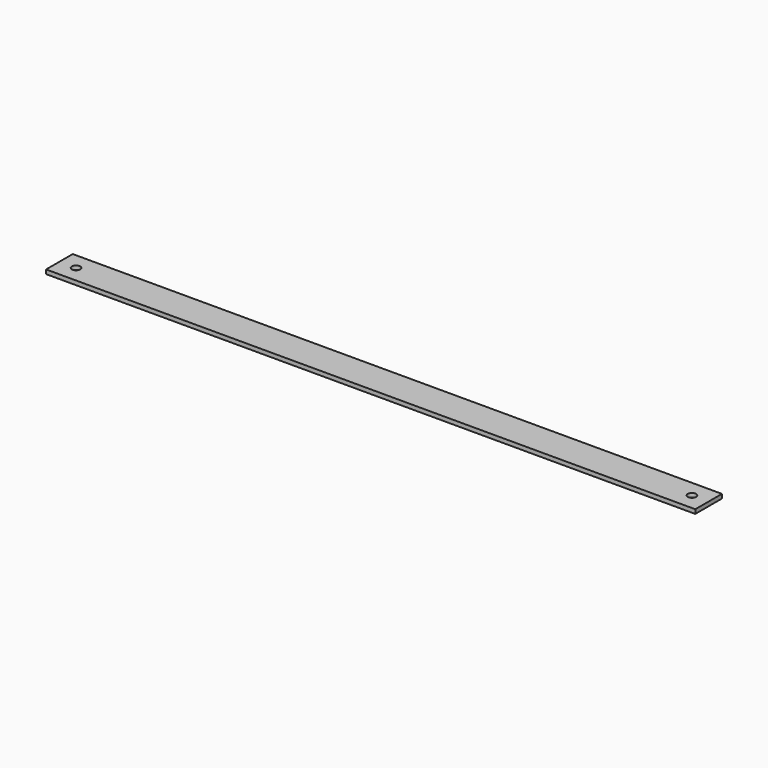
from build123d import *

# Parameters (mm, degrees)
F0_W     = 25.4
F0_H     = 3.175
F1_DEPTH = 247.65
F2_R     = 3.175
F3_DEPTH = 3.176


with BuildPart() as f1:
    # F0 (on Right) → F1 (new body, symmetric)
    with BuildSketch(Plane.YZ):
        Rectangle(F0_W, F0_H)
    extrude(amount=F1_DEPTH, both=True)

    # F2 (on face) → F3 (cut, through all)
    with BuildSketch(Plane.XY.offset(1.5875)):
        with Locations((234.95, 0)):
            Circle(F2_R)
        with Locations((-234.95, 0)):
            Circle(F2_R)
    extrude(amount=-F3_DEPTH, mode=Mode.SUBTRACT)


solid = f1.part
